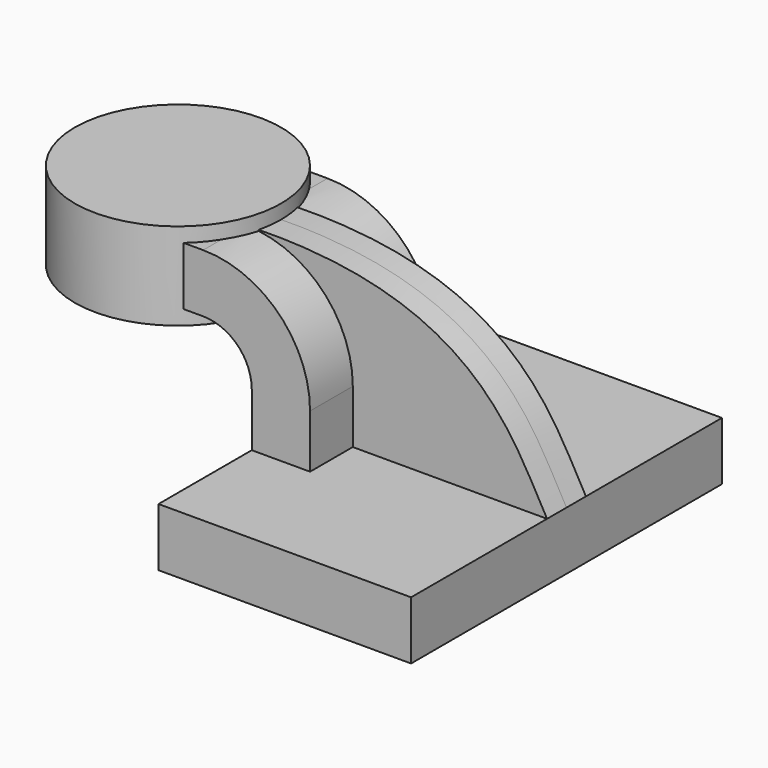
from build123d import *

# Parameters (mm, degrees)
F1_DEPTH = 63.5
F0_W     = 17.08876
F0_H     = 4.7498
F2_DEPTH = 25.4
F3_DEPTH = 7.9375


with BuildPart() as f1:
    # F0 (on Front) → F1 (new body, symmetric)
    with BuildSketch(Plane.XZ):
        Polygon((-41.275, 9.525), (-41.275, -9.525), (41.275, -9.525), (41.275, 9.525), (-22.225, 9.525), align=None)
    extrude(amount=F1_DEPTH, both=True)

    # F0 (on Front) → F2 (join, symmetric)
    with BuildSketch(Plane.XZ):
        with Locations((-77.18062, 64.3001)):
            Rectangle(F0_W, F0_H)
        with BuildLine():
            Line((-41.275, 27.0002), (-41.275, 9.525))
            Line((-41.275, 9.525), (-22.225, 9.525))
            Line((-22.225, 9.525), (-22.225, 27.0002))
            ThreePointArc((-22.225, 27.0002), (-32.454296, 51.695904), (-57.15, 61.9252))
            Line((-57.15, 61.9252), (-68.63624, 61.9252))
            Line((-68.63624, 61.9252), (-68.63624, 42.8752))
            Line((-68.63624, 42.8752), (-57.15, 42.8752))
            ThreePointArc((-57.15, 42.8752), (-45.92468, 38.22552), (-41.275, 27.0002))
        make_face()
    extrude(amount=F2_DEPTH, both=True)

    # F0 (on Front) → F3 (join, symmetric)
    with BuildSketch(Plane.XZ):
        with BuildLine():
            Line((-22.225, 9.525), (41.275, 9.525))
            add(Edge.make_bspline(
                [(41.275, 9.525), (30.298301, 28.204535), (17.943603, 64.763766), (-57.15, 61.9252)],
                knots=[0, 0, 0, 0, 111.504536, 111.504536, 111.504536, 111.504536], degree=3))
            ThreePointArc((-57.15, 61.9252), (-32.454296, 51.695904), (-22.225, 27.0002))
            Line((-22.225, 27.0002), (-22.225, 9.525))
        make_face()
    extrude(amount=F3_DEPTH, both=True)

    # F0 (on Front) → F4 (revolve)
    with BuildSketch(Plane.XZ):
        Polygon((-85.725, 42.8752), (-85.725, 61.9252), (-85.725, 66.675), (-119.43624, 66.675), (-119.43624, 38.1), (-85.725, 38.1), align=None)
    revolve(axis=Axis((-85.725, 0, 52.3875), (0, 0, 1)))


solid = f1.part
